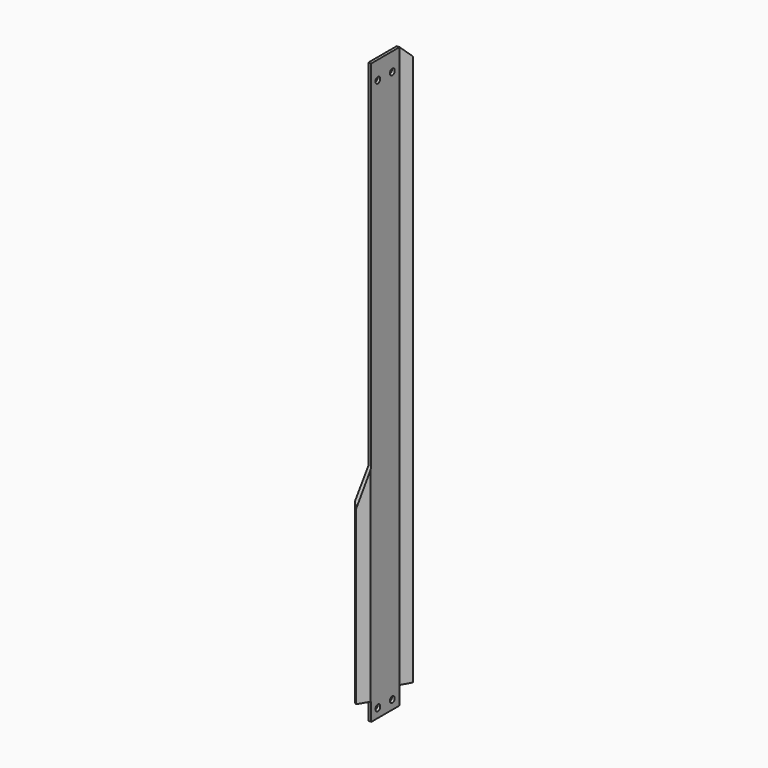
from build123d import *

# Parameters (mm, degrees)
F1_DEPTH   = 1219.2
F2_W       = 23.9416415725
F2_H       = 38.1
F3_DEPTH   = 17.7778808061
F5_D       = 12.7
F7_D       = 12.7
F8_DEPTH   = 18.3432517809
F1_FACE1_W = 24.0414338853
F1_FACE1_H = 1181.1
F9_DEPTH   = 25.4
F10_W      = 23.5252457925
F10_H      = 38.1
F11_DEPTH  = 25.4
F13_DEPTH  = 25.4


with BuildPart() as f1:
    # F0 (on Top) → F1 (new body)
    with BuildSketch(Plane.XY):
        Polygon((0, 76.2), (0, 0), (-12.4657263412, -20.1891490921), (-7.0626754618, -23.5252457925), (5.8765254397, -1.6680483502), (5.8765254397, 74.5319516498), (17.7768808061, 95.4214725972), (12.2084825006, 98.4735932223), align=None)
    extrude(amount=-F1_DEPTH)

    # F2 (on Right) → F3 (cut, through all)
    with BuildSketch(Plane.YZ):
        with Locations((86.5027724361, -1200.15)):
            Rectangle(F2_W, F2_H)
    extrude(amount=F3_DEPTH, mode=Mode.SUBTRACT)

    # F5 (through all)
    with Locations(Plane.YZ.offset(5.8765254397)):
        with Locations((55.4819516498, -1200.15), (17.3819516498, -1200.15)):
            Hole(F5_D / 2)

    # F7 (through all)
    with Locations(Plane.YZ.offset(5.8765254397)):
        with Locations((55.4819516498, -38.1), (17.3819516498, -38.1)):
            Hole(F7_D / 2)

    # F4 (on face) → F8 (cut, through all)
    with BuildSketch(Plane.YZ.offset(5.8765254397)):
        Polygon((98.4861776233, 0), (74.5319516498, 0), (98.4861776233, -25.4), align=None)
        Polygon((-22.3291479051, 0), (-22.3291479051, -25.4), (-1.6680483502, 0), align=None)
    extrude(amount=-F8_DEPTH, mode=Mode.SUBTRACT)

    # F4 (on face) + F1_face1 (on face) → F9 (cut)
    with BuildSketch(Plane.YZ.offset(5.8765254397)):
        Polygon((98.4861776233, 0), (74.5319516498, 0), (98.4861776233, -25.4), align=None)
        Polygon((-22.3291479051, 0), (-22.3291479051, -25.4), (-1.6680483502, 0), align=None)
    with BuildSketch(Plane(origin=(11.8267031229, 84.9767121235, -590.55), x_dir=(0.4949935775, 0.8688966327, 0), z_dir=(0.8688966327, -0.4949935775, 0))):
        Rectangle(F1_FACE1_W, F1_FACE1_H)
    extrude(amount=F9_DEPTH, dir=(1, 0, 0), mode=Mode.SUBTRACT)

    # F10 (on face) → F11 (cut)
    with BuildSketch(Plane.YZ.offset(5.8765254397)):
        with Locations((-11.7626228962, -1200.15)):
            Rectangle(F10_W, F10_H)
    extrude(amount=-F11_DEPTH, mode=Mode.SUBTRACT)

    # F12 (on face) → F13 (cut)
    with BuildSketch(Plane.YZ.offset(5.8765254397)):
        Polygon((0, -746.356010437), (0, 0), (-23.5252457925, 0), (-23.5252457925, -746.356010437), (-23.5252457925, -819.4740414619), align=None)
    extrude(amount=-F13_DEPTH, mode=Mode.SUBTRACT)


solid = f1.part
